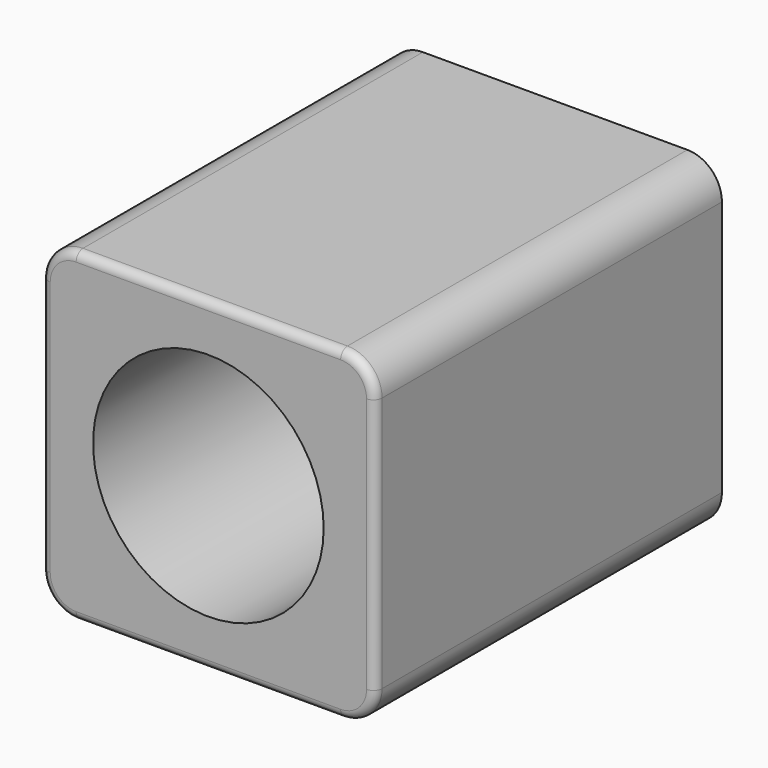
from build123d import *

# Parameters (mm, degrees)
F0_W     = 49.041539
F0_H     = 47.77154
F0_R     = 16.952149
F1_DEPTH = 63.72292
F2_R     = 5.08
F3_R     = 1.27


with BuildPart() as f1:
    # F0 (on Front) → F1 (new body)
    with BuildSketch(Plane.XZ):
        with Locations((24.52077, 23.88577)):
            Rectangle(F0_W, F0_H)
        with Locations((24.52077, 23.88577)):
            Circle(F0_R, mode=Mode.SUBTRACT)
    extrude(amount=F1_DEPTH)

    # F2
    f2_edges = [f1.edges().sort_by_distance(p)[0] for p in [
        (49.041539, -31.86146, 47.77154),
        (0, -31.86146, 47.77154),
        (49.041539, -31.86146, 0),
        (0, -31.86146, 0),
    ]]
    fillet(f2_edges, radius=F2_R)

    # F3
    f3_edges = [f1.edges().sort_by_distance(p)[0] for p in [
        (49.041539, -63.72292, 23.88577),
    ]]
    fillet(f3_edges, radius=F3_R)


solid = f1.part
